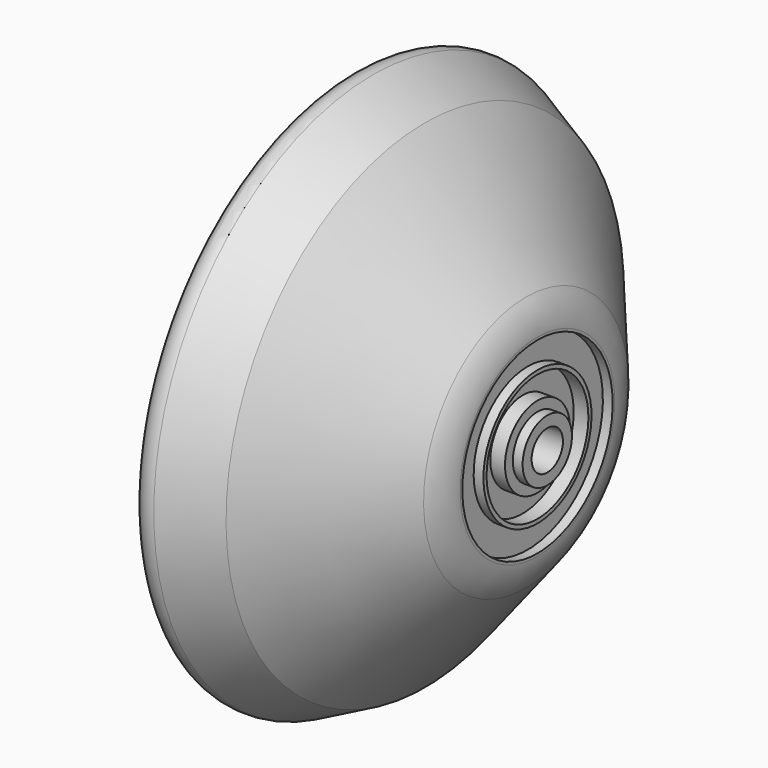
from build123d import *


with BuildPart() as f1:
    # F0 (on Front) → F1 (revolve)
    with BuildSketch(Plane.XZ):
        with BuildLine():
            Line((-5, 2), (-1.4, 2))
            Line((-1.4, 2), (-1.4, 3.15))
            Line((-1.4, 3.15), (-2.4, 3.15))
            Line((-2.4, 3.15), (-2.4, 4.15))
            Line((-2.4, 4.15), (-3.9, 4.15))
            Line((-3.9, 4.15), (-3.9, 6.5))
            Line((-3.9, 6.5), (-2.4, 6.5))
            Line((-2.4, 6.5), (-2.4, 6.9))
            Line((-2.4, 6.9), (-3.4, 6.9))
            Line((-3.4, 6.9), (-3.4, 9.6))
            Line((-3.4, 9.6), (-2.4, 9.6))
            Line((-2.4, 9.6), (-2.4, 9.871489))
            ThreePointArc((-2.4, 9.871489), (-2.701537, 11.58159), (-3.569778, 13.085427))
            Line((-3.569778, 13.085427), (-13.9, 25.396507))
            Line((-13.9, 25.396507), (-19.197218, 28))
            ThreePointArc((-19.197218, 28), (-20.775245, 27.747433), (-21.5, 26.323112))
            Line((-21.5, 26.323112), (-21.094576, 21.799127))
            ThreePointArc((-21.094576, 21.799127), (-20.675304, 21.071455), (-19.849262, 20.91996))
            ThreePointArc((-19.849262, 20.91996), (-14.302285, 20.757973), (-9.695771, 17.663586))
            Line((-9.695771, 17.663586), (-5.652634, 12.845162))
            Line((-5.652634, 12.845162), (-6.080364, 12.266552))
            ThreePointArc((-6.080364, 12.266552), (-6.154288, 11.969465), (-5.996488, 11.70712))
            Line((-5.996488, 11.70712), (-6.021666, 11.725732))
            ThreePointArc((-6.021666, 11.725732), (-5.932138, 11.619584), (-5.9, 11.484492))
            Line((-5.9, 11.484492), (-5.9, 3.995528))
            Line((-5.9, 3.995528), (-7.052644, 0))
            Line((-7.052644, 0), (-6.154701, 0))
            Line((-6.154701, 0), (-5, 2))
        make_face()
    revolve(axis=Axis((-6.603672, 0, 0), (-1, 0, 0)))


solid = f1.part
